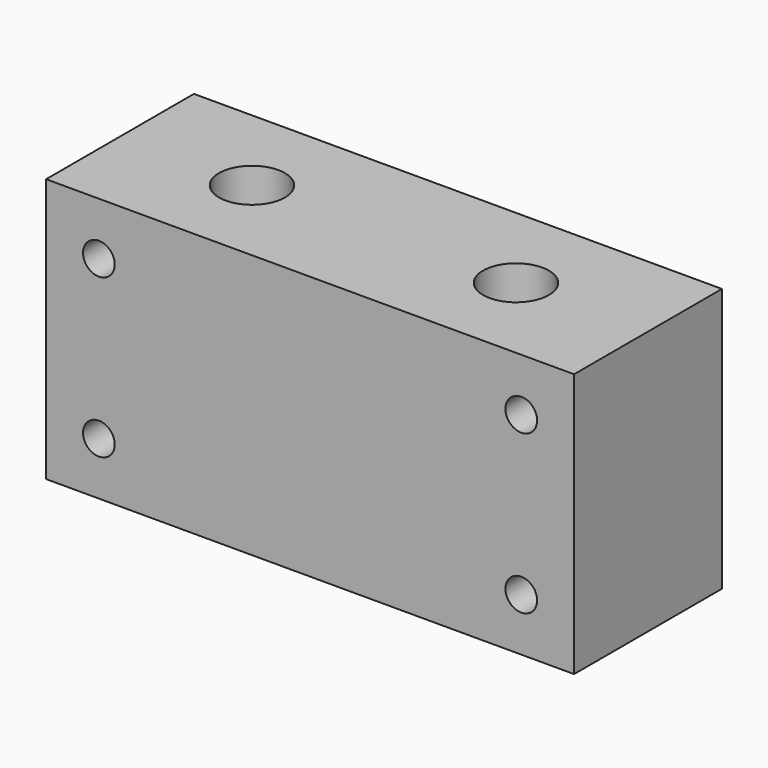
from build123d import *

# Parameters (mm, degrees)
F0_W     = 100
F0_H     = 50
F1_DEPTH = 35
F2_R     = 6.25
F3_DEPTH = 50.001
F5_D     = 6
F6_R     = 10
F6_R_2   = 6.25
F7_DEPTH = 10


with BuildPart() as f1:
    # F0 (on Front) → F1 (new body)
    with BuildSketch(Plane.XZ):
        with Locations((50, 25)):
            Rectangle(F0_W, F0_H)
    extrude(amount=F1_DEPTH)

    # F2 (on face) → F3 (cut, through all)
    with BuildSketch(Plane.XY.offset(50)):
        with Locations((25, -17.5)):
            Circle(F2_R)
        with Locations((75, -17.5)):
            Circle(F2_R)
    extrude(amount=-F3_DEPTH, mode=Mode.SUBTRACT)

    # F5 (through all)
    with Locations(Plane(origin=(0, 0, 0), x_dir=(-1, 0, 0), z_dir=(0, 1, 0))):
        with Locations((-90, 40), (-10, 40), (-10, 10), (-90, 10)):
            Hole(F5_D / 2)

    # F6 (on face) → F7 (cut)
    with BuildSketch(Plane(origin=(0, 0, 0), x_dir=(1, 0, 0), z_dir=(0, 0, -1))):
        with Locations((25, 17.5)):
            Circle(F6_R)
        with Locations((25, 17.5)):
            Circle(F6_R_2, mode=Mode.SUBTRACT)
        with Locations((75, 17.5)):
            Circle(F6_R)
        with Locations((75, 17.5)):
            Circle(F6_R_2, mode=Mode.SUBTRACT)
    extrude(amount=-F7_DEPTH, mode=Mode.SUBTRACT)


solid = f1.part
